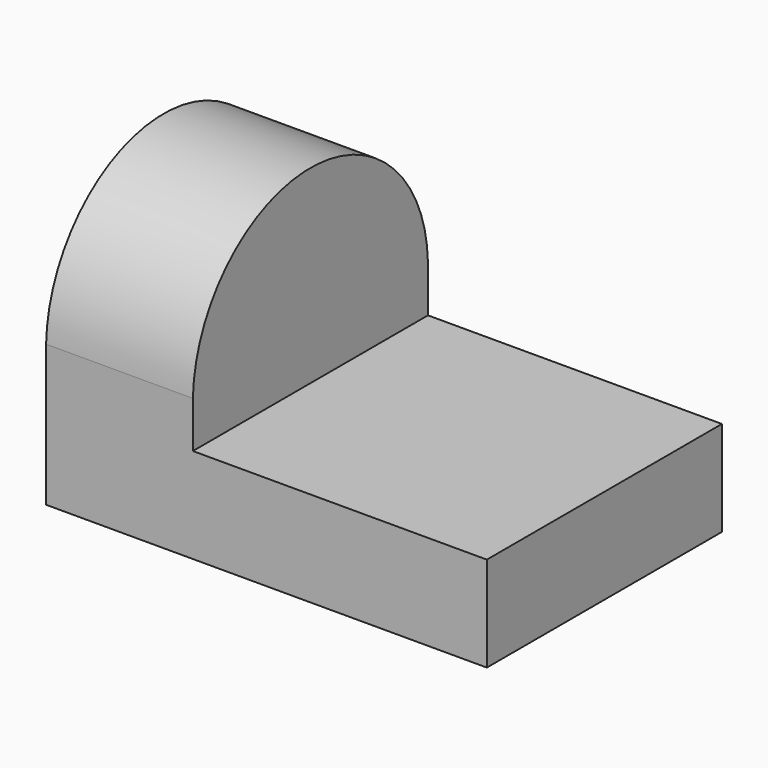
from build123d import *

# Parameters (mm, degrees)
F0_W     = 38.1
F0_H     = 25.4
F1_DEPTH = 12.7
F2_W     = 25.409764
F2_H     = 17.182311
F3_DEPTH = 25.401
F5_DEPTH = 38.101


with BuildPart() as f1:
    # F0 (on Front) → F1 (new body, symmetric)
    with BuildSketch(Plane.XZ):
        with Locations((19.05, 12.7)):
            Rectangle(F0_W, F0_H)
    extrude(amount=F1_DEPTH, both=True)

    # F2 (on face) → F3 (cut, through all)
    with BuildSketch(Plane.XZ.offset(12.7)):
        with Locations((25.395118, 16.808844)):
            Rectangle(F2_W, F2_H)
    extrude(amount=-F3_DEPTH, mode=Mode.SUBTRACT)

    # F4 (on face) → F5 (cut, through all)
    with BuildSketch(Plane(origin=(0, 0, 0), x_dir=(0, -1, 0), z_dir=(-1, 0, 0))):
        with BuildLine():
            ThreePointArc((-12.7, 12.223971), (0, 24.601783), (12.7, 12.223971))
            Line((12.7, 12.223971), (12.7, 25.4))
            Line((12.7, 25.4), (-12.7, 25.4))
            Line((-12.7, 25.4), (-12.7, 12.223971))
        make_face()
    extrude(amount=-F5_DEPTH, mode=Mode.SUBTRACT)


solid = f1.part
